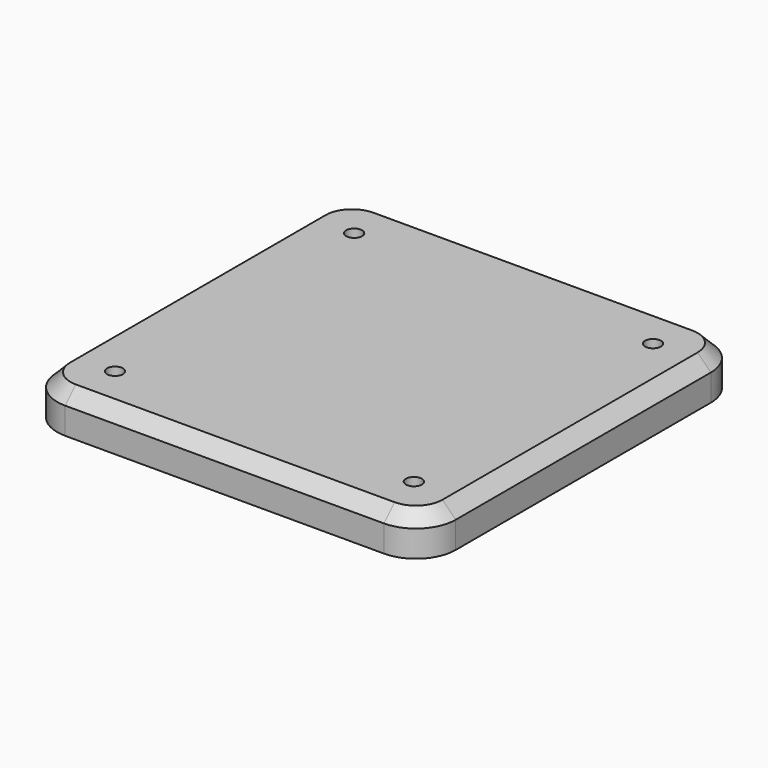
from build123d import *

# Parameters (mm, degrees)
F0_R          = 6
F1_DEPTH      = 15
F1_DEPTH_BACK = 15
F2_SIZE       = 10
F3_DEPTH      = 5
F3_DEPTH_BACK = 15
F4_DEPTH      = 15
F4_DEPTH_BACK = 5


with BuildPart() as f1:
    # F0 (on Top) → F1 (new body, two sides)
    with BuildSketch(Plane.XY) as f1_sk:
        with BuildLine():
            Line((120, 150), (-120, 150))
            ThreePointArc((-120, 150), (-141.213203, 141.213203), (-150, 120))
            Line((-150, 120), (-150, -120))
            ThreePointArc((-150, -120), (-141.213203, -141.213203), (-120, -150))
            Line((-120, -150), (120, -150))
            ThreePointArc((120, -150), (141.213203, -141.213203), (150, -120))
            Line((150, -120), (150, 120))
            ThreePointArc((150, 120), (141.213203, 141.213203), (120, 150))
        make_face()
        with Locations((-125, -125)):
            Circle(F0_R, mode=Mode.SUBTRACT)
        with Locations((-112.5, -112.5)):
            Circle(F0_R, mode=Mode.SUBTRACT)
        with Locations((125, -125)):
            Circle(F0_R, mode=Mode.SUBTRACT)
        with Locations((112.5, -112.5)):
            Circle(F0_R, mode=Mode.SUBTRACT)
        with Locations((-125, 125)):
            Circle(F0_R, mode=Mode.SUBTRACT)
        with Locations((-112.5, 112.5)):
            Circle(F0_R, mode=Mode.SUBTRACT)
        with Locations((112.5, 112.5)):
            Circle(F0_R, mode=Mode.SUBTRACT)
        with Locations((125, 125)):
            Circle(F0_R, mode=Mode.SUBTRACT)
    extrude(amount=F1_DEPTH)
    extrude(f1_sk.sketch, amount=-F1_DEPTH_BACK)

    # F2
    f2_edges = [f1.edges().sort_by_distance(p)[0] for p in [
        (0, 150, 15),
        (-141.213203, 141.213203, 15),
        (-150, 0, 15),
        (0, -150, 15),
        (-141.213203, -141.213203, 15),
        (141.213203, -141.213203, 15),
        (150, 0, 15),
        (141.213203, 141.213203, 15),
    ]]
    chamfer(f2_edges, length=F2_SIZE)

    # F0 (on Top) → F3 (join, two sides)
    with BuildSketch(Plane.XY) as f3_sk:
        with Locations((-112.5, 112.5)):
            Circle(F0_R)
        with Locations((112.5, 112.5)):
            Circle(F0_R)
        with Locations((112.5, -112.5)):
            Circle(F0_R)
        with Locations((-112.5, -112.5)):
            Circle(F0_R)
    extrude(amount=F3_DEPTH)
    extrude(f3_sk.sketch, amount=-F3_DEPTH_BACK)

    # F0 (on Top) → F4 (join, two sides)
    with BuildSketch(Plane.XY) as f4_sk:
        with Locations((125, 125)):
            Circle(F0_R)
        with Locations((-125, 125)):
            Circle(F0_R)
        with Locations((-125, -125)):
            Circle(F0_R)
        with Locations((125, -125)):
            Circle(F0_R)
    extrude(amount=F4_DEPTH)
    extrude(f4_sk.sketch, amount=-F4_DEPTH_BACK)


solid = f1.part
